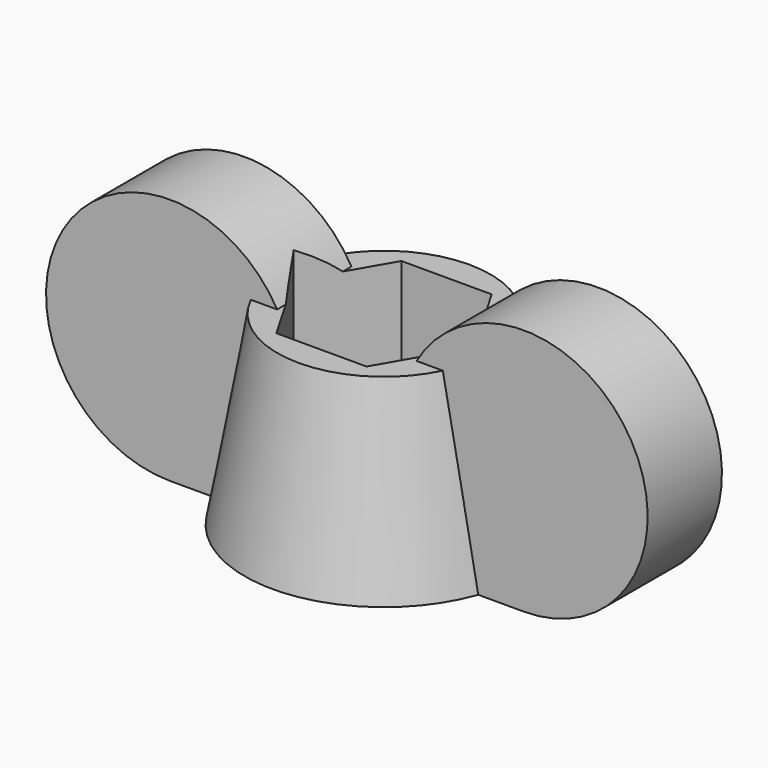
from build123d import *

# Parameters (mm, degrees)
F0_R     = 9
F0_R_2   = 3.2
F1_DEPTH = 12
F1_TAPER = 10
F3_DEPTH = 3
F4_DEPTH = 12
F5_START = 3
F5_DEPTH = 22


with BuildPart() as f1:
    # F0 (on Top) → F1 (new body)
    with BuildSketch(Plane.XY):
        Circle(F0_R)
        Polygon((-5.8312377188, 0), (-2.9156188594, 5.05), (2.9156188594, 5.05), (5.8312377188, 0), (2.9156188594, -5.05), (-2.9156188594, -5.05), align=None, mode=Mode.SUBTRACT)
        Polygon((2.9156188594, 5.05), (-2.9156188594, 5.05), (-5.8312377188, 0), (-2.9156188594, -5.05), (2.9156188594, -5.05), (5.8312377188, 0), align=None)
        Circle(F0_R_2, mode=Mode.SUBTRACT)
        Circle(F0_R_2)
    extrude(amount=F1_DEPTH, taper=F1_TAPER)

    # F2 (on Front) → F3 (join, symmetric)
    with BuildSketch(Plane.XZ):
        with BuildLine():
            Line((4.5, 12), (-4.5, 12))
            ThreePointArc((-4.5, 12), (-18.3564064606, 12), (-11.4282032303, 0))
            Line((-11.4282032303, 0), (0, 0))
            Line((0, 0), (11.4282032303, 0))
            ThreePointArc((11.4282032303, 0), (18.3564064606, 12), (4.5, 12))
        make_face()
    extrude(amount=F3_DEPTH, both=True)

    # F0 (on Top) → F4 (cut, through all)
    with BuildSketch(Plane.XY):
        Circle(F0_R_2)
    extrude(amount=F4_DEPTH, mode=Mode.SUBTRACT)

    # F0 (on Top) → F5 (cut)
    with BuildSketch(Plane.XY.offset(F5_START)):
        Polygon((2.9156188594, 5.05), (-2.9156188594, 5.05), (-5.8312377188, 0), (-2.9156188594, -5.05), (2.9156188594, -5.05), (5.8312377188, 0), align=None)
        Circle(F0_R_2, mode=Mode.SUBTRACT)
    extrude(amount=F5_DEPTH, mode=Mode.SUBTRACT)


solid = f1.part
